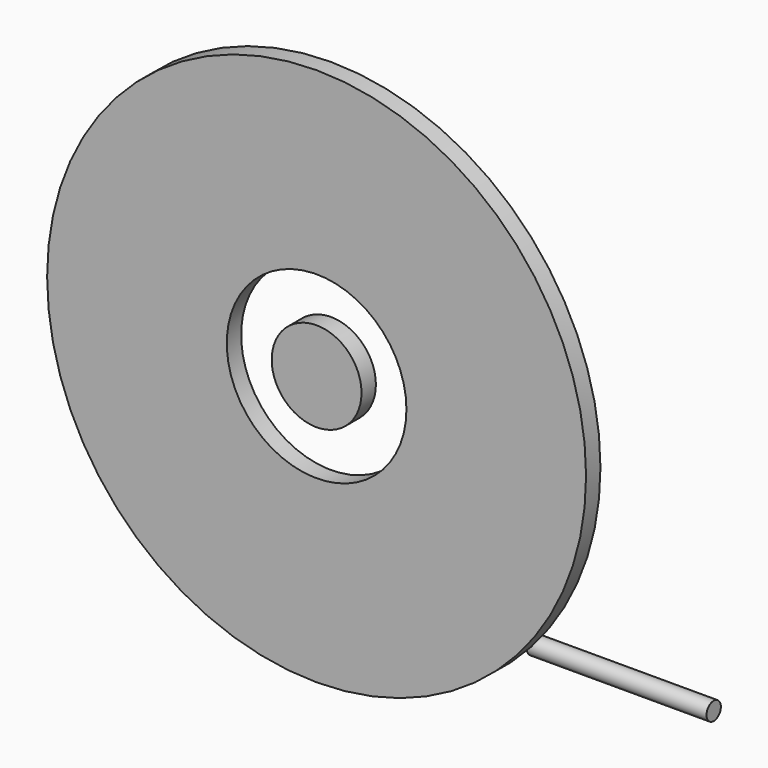
from build123d import *

# Parameters (mm, degrees)
F0_R     = 38.1
F0_R_2   = 12.7
F0_R_3   = 6.35
F1_DEPTH = 2.54
F2_R     = 1.27
F3_DEPTH = 25.4


with BuildPart() as f1:
    # F0 (on Front) → F1 (new body)
    with BuildSketch(Plane.XZ):
        Circle(F0_R)
        Circle(F0_R_2, mode=Mode.SUBTRACT)
        Circle(F0_R_3)
    extrude(amount=-F1_DEPTH)


with BuildPart() as f3:
    # F2 (on Right) → F3 (new body)
    with BuildSketch(Plane.YZ):
        with Locations((70.177451, -70.177384)):
            Circle(F2_R)
    extrude(amount=-F3_DEPTH)


solid = Compound([f1.part, f3.part])
